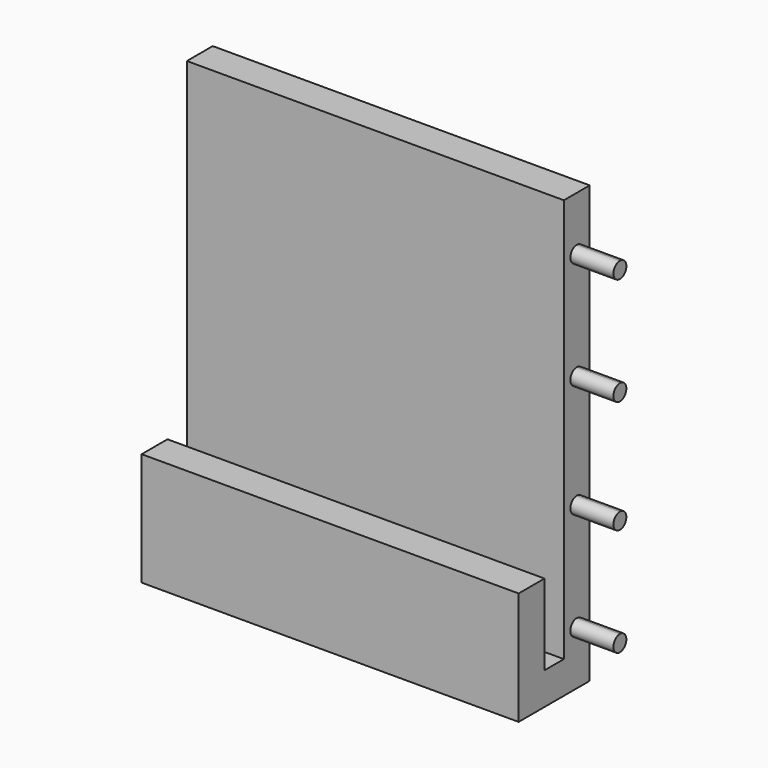
from build123d import *

# Parameters (mm, degrees)
F1_DEPTH = 70
F3_DEPTH = 8
F5_DEPTH = 9


with BuildPart() as f1:
    # F0 (on Right) → F1 (new body)
    with BuildSketch(Plane.YZ):
        Polygon((15.977706, -27.121146), (15.977706, 53.878854), (9.977706, 53.878854), (9.977706, -21.121146), (5.477706, -21.121146), (5.477706, -6.121146), (-0.522294, -6.121146), (-0.522294, -27.121146), align=None)
    extrude(amount=F1_DEPTH)

    # F2 (on face) → F3 (join)
    with BuildSketch(Plane.YZ.offset(70)):
        with BuildLine():
            Line((12.977706, 43.878854), (12.977706, 45.378854))
            ThreePointArc((12.977706, 45.378854), (11.477706, 43.878854), (12.977706, 42.378854))
            Line((12.977706, 42.378854), (12.977706, 43.878854))
        make_face()
        with BuildLine():
            ThreePointArc((12.977706, 42.378854), (14.038366, 42.818193), (14.477706, 43.878854))
            ThreePointArc((14.477706, 43.878854), (14.038366, 44.939514), (12.977706, 45.378854))
            Line((12.977706, 45.378854), (12.977706, 43.878854))
            Line((12.977706, 43.878854), (12.977706, 42.378854))
        make_face()
        with BuildLine():
            Line((12.977706, 23.878854), (12.977706, 25.378854))
            ThreePointArc((12.977706, 25.378854), (11.477706, 23.878854), (12.977706, 22.378854))
            Line((12.977706, 22.378854), (12.977706, 23.878854))
        make_face()
        with BuildLine():
            ThreePointArc((14.477706, 23.878854), (14.038366, 24.939514), (12.977706, 25.378854))
            Line((12.977706, 25.378854), (12.977706, 23.878854))
            Line((12.977706, 23.878854), (12.977706, 22.378854))
            ThreePointArc((12.977706, 22.378854), (14.038366, 22.818193), (14.477706, 23.878854))
        make_face()
        with BuildLine():
            Line((12.977706, 2.878854), (12.977706, 4.378854))
            ThreePointArc((12.977706, 4.378854), (11.477706, 2.878854), (12.977706, 1.378854))
            Line((12.977706, 1.378854), (12.977706, 2.878854))
        make_face()
        with BuildLine():
            ThreePointArc((14.477706, 2.878854), (14.038366, 3.939514), (12.977706, 4.378854))
            Line((12.977706, 4.378854), (12.977706, 2.878854))
            Line((12.977706, 2.878854), (12.977706, 1.378854))
            ThreePointArc((12.977706, 1.378854), (14.038366, 1.818193), (14.477706, 2.878854))
        make_face()
        with BuildLine():
            ThreePointArc((14.477706, -17.121146), (14.038366, -16.060486), (12.977706, -15.621146))
            ThreePointArc((12.977706, -15.621146), (11.917046, -18.181807), (14.477706, -17.121146))
        make_face()
    extrude(amount=F3_DEPTH)

    # F4 (on face) → F5 (cut)
    with BuildSketch(Plane(origin=(0, 0, 0), x_dir=(0, -1, 0), z_dir=(-1, 0, 0))):
        with BuildLine():
            Line((-12.977706, 43.878854), (-12.977706, 45.753854))
            ThreePointArc((-12.977706, 45.753854), (-14.852706, 43.878854), (-12.977706, 42.003854))
            Line((-12.977706, 42.003854), (-12.977706, 43.878854))
        make_face()
        with BuildLine():
            ThreePointArc((-12.977706, 42.003854), (-11.651881, 42.553028), (-11.102706, 43.878854))
            ThreePointArc((-11.102706, 43.878854), (-11.651881, 45.204679), (-12.977706, 45.753854))
            Line((-12.977706, 45.753854), (-12.977706, 43.878854))
            Line((-12.977706, 43.878854), (-12.977706, 42.003854))
        make_face()
        with BuildLine():
            Line((-12.977706, 23.878854), (-12.977706, 25.753854))
            ThreePointArc((-12.977706, 25.753854), (-14.852706, 23.878854), (-12.977706, 22.003854))
            Line((-12.977706, 22.003854), (-12.977706, 23.878854))
        make_face()
        with BuildLine():
            ThreePointArc((-11.102706, 23.878854), (-11.651881, 25.204679), (-12.977706, 25.753854))
            Line((-12.977706, 25.753854), (-12.977706, 23.878854))
            Line((-12.977706, 23.878854), (-12.977706, 22.003854))
            ThreePointArc((-12.977706, 22.003854), (-11.651881, 22.553028), (-11.102706, 23.878854))
        make_face()
        with BuildLine():
            Line((-12.977706, 2.878854), (-12.977706, 4.753854))
            ThreePointArc((-12.977706, 4.753854), (-14.852706, 2.878854), (-12.977706, 1.003854))
            Line((-12.977706, 1.003854), (-12.977706, 2.878854))
        make_face()
        with BuildLine():
            ThreePointArc((-11.102706, 2.878854), (-11.651881, 4.204679), (-12.977706, 4.753854))
            Line((-12.977706, 4.753854), (-12.977706, 2.878854))
            Line((-12.977706, 2.878854), (-12.977706, 1.003854))
            ThreePointArc((-12.977706, 1.003854), (-11.651881, 1.553028), (-11.102706, 2.878854))
        make_face()
        with BuildLine():
            ThreePointArc((-12.977706, -15.246146), (-14.852706, -17.121146), (-12.977706, -18.996146))
            Line((-12.977706, -18.996146), (-12.977706, -17.121146))
            Line((-12.977706, -17.121146), (-12.977706, -15.246146))
        make_face()
        with BuildLine():
            Line((-12.977706, -17.121146), (-12.977706, -18.996146))
            ThreePointArc((-12.977706, -18.996146), (-11.651881, -18.446972), (-11.102706, -17.121146))
            ThreePointArc((-11.102706, -17.121146), (-11.651881, -15.795321), (-12.977706, -15.246146))
            Line((-12.977706, -15.246146), (-12.977706, -17.121146))
        make_face()
    extrude(amount=-F5_DEPTH, mode=Mode.SUBTRACT)


solid = f1.part
